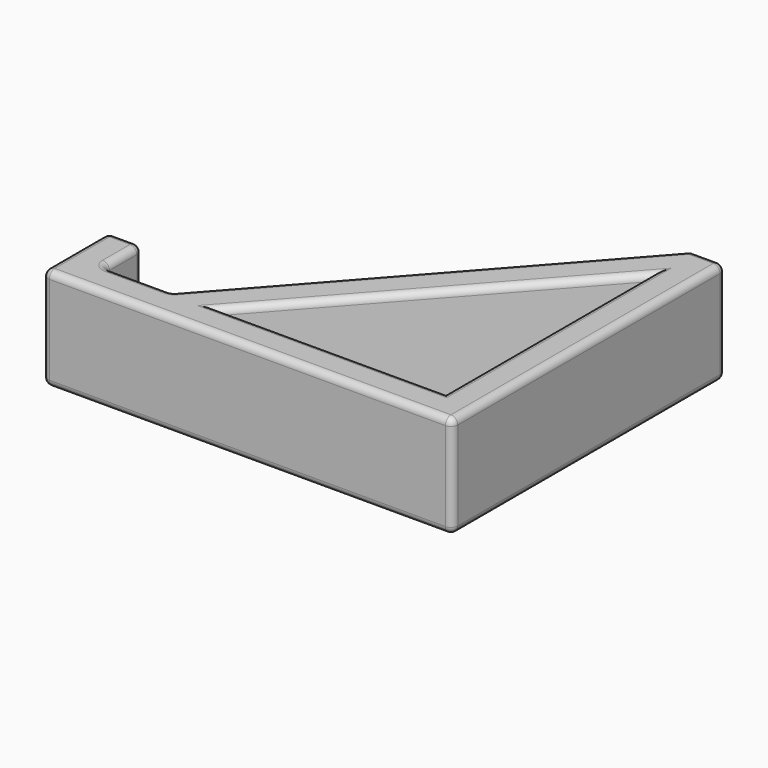
from build123d import *

# Parameters (mm, degrees)
F1_DEPTH = 19.05
F2_R     = 1.27


with BuildPart() as f1:
    # F0 (on Top) → F1 (new body)
    with BuildSketch(Plane.XY):
        Polygon((-76.2, 0), (0, 0), (0, 63.5), (-6.35, 63.5), (-57.15, 6.35), (-69.85, 6.35), (-69.85, 15.24), (-76.2, 15.24), align=None)
        Polygon((-6.35, 6.35), (-48.653986, 6.35), (-6.35, 53.941984), align=None, mode=Mode.SUBTRACT)
    extrude(amount=F1_DEPTH)

    # F2
    f2_edges = [f1.edges().sort_by_distance(p)[0] for p in [
        (-31.75, 34.925, 19.05),
        (-38.1, 0, 19.05),
        (0, 31.75, 19.05),
        (-3.175, 63.5, 19.05),
        (-63.5, 6.35, 19.05),
        (-69.85, 10.795, 19.05),
        (-73.025, 15.24, 19.05),
        (-76.2, 7.62, 19.05),
        (-27.501993, 6.35, 19.05),
        (-27.501993, 30.145992, 19.05),
        (-6.35, 30.145992, 19.05),
        (-38.1, 0, 0),
        (0, 31.75, 0),
        (-3.175, 63.5, 0),
        (-31.75, 34.925, 0),
        (-63.5, 6.35, 0),
        (-69.85, 10.795, 0),
        (-73.025, 15.24, 0),
        (-76.2, 7.62, 0),
        (-27.501993, 6.35, 0),
        (-27.501993, 30.145992, 0),
        (-6.35, 30.145992, 0),
        (-69.85, 6.35, 9.525),
        (-69.85, 15.24, 9.525),
        (-76.2, 15.24, 9.525),
        (0, 0, 9.525),
        (0, 63.5, 9.525),
        (-6.35, 63.5, 9.525),
        (-57.15, 6.35, 9.525),
        (-76.2, 0, 9.525),
    ]]
    fillet(f2_edges, radius=F2_R)


solid = f1.part
